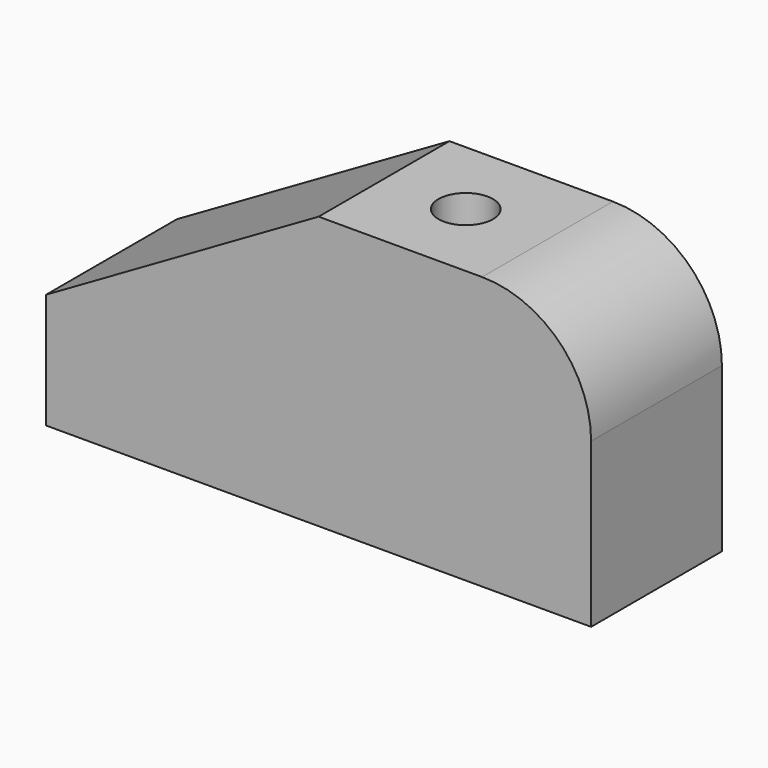
from build123d import *

# Parameters (mm, degrees)
CYLINDER_R             = 5
CYLINDER_DEPTH         = 50
BOX001_W               = 60
BOX001_H               = 30
BOX001_DEPTH           = 30
BOX001_PLACEMENT_ANGLE = 330
BOX_W                  = 100
BOX_H                  = 30
BOX_DEPTH              = 50
FILLET_R               = 20


with BuildPart() as cylinder:
    # Cylinder → Cylinder (new body)
    with BuildSketch(Plane(origin=(65, 15, 0), x_dir=(1, 0, 0), z_dir=(0, 0, 1))):
        Circle(CYLINDER_R)
    extrude(amount=CYLINDER_DEPTH)


with BuildPart() as cube001:
    # Box001 → Box001 (new body)
    with BuildSketch(Plane.XY):
        with Locations((30, 15)):
            Rectangle(BOX001_W, BOX001_H)
    extrude(amount=BOX001_DEPTH)


with BuildPart() as cube001_1:
    # Box001 placement: moved
    add(cube001.part.moved(Location((0, 0, 21.13))).rotate(Axis((0, 0, 21.13), (0, 1, 0)), BOX001_PLACEMENT_ANGLE))


with BuildPart() as simplepart:
    # Box → Box (new body)
    with BuildSketch(Plane.XY):
        with Locations((50, 15)):
            Rectangle(BOX_W, BOX_H)
    extrude(amount=BOX_DEPTH)

    # Fillet
    fillet_edges = [simplepart.edges().sort_by_distance(p)[0] for p in [
        (100, 15, 50),
    ]]
    fillet(fillet_edges, radius=FILLET_R)

    # Cut: cut Cube001
    add(cube001_1.part, mode=Mode.SUBTRACT)

    # Cut001: cut Cylinder
    add(cylinder.part, mode=Mode.SUBTRACT)


solid = simplepart.part
